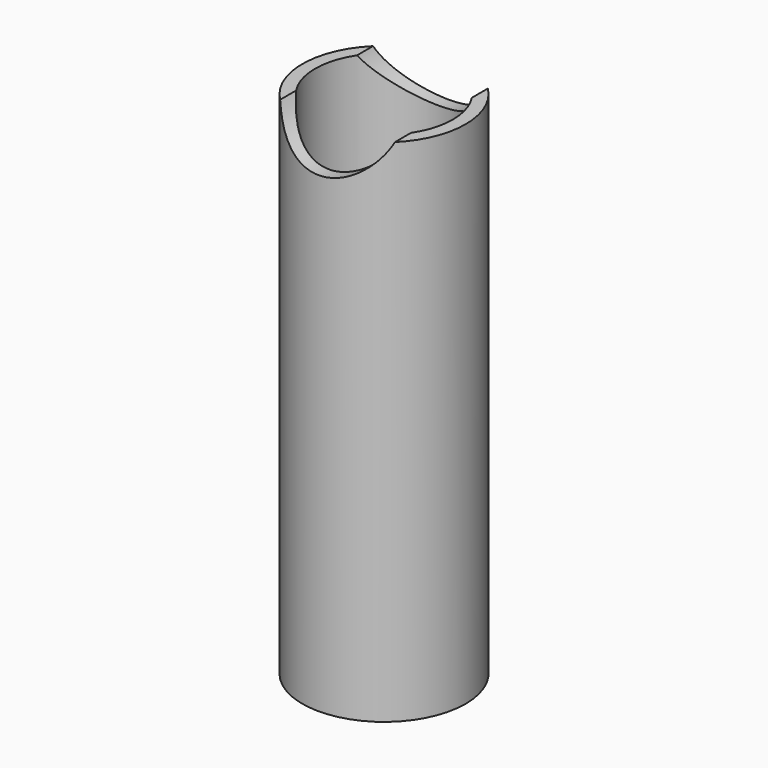
from build123d import *

# Parameters (mm, degrees)
F3_DEPTH      = 12.801
F3_DEPTH_BACK = 12.801


with BuildPart() as f1:
    # F0 (on Front) → F1 (revolve)
    with BuildSketch(Plane.XZ):
        Polygon((3.2, 0), (12.8, 0), (12.8, 80), (10.8, 80), (10.8, 10), (5.2, 10), (4.4, 10.8), (4.4, 12.9607695155), (3.8, 14), (3.2, 14), align=None)
    revolve(axis=Axis((0, 0, 37.0239801705), (0, 0, 1)))

    # F2 (on Front) → F3 (cut, two sides)
    with BuildSketch(Plane.XZ) as f3_sk:
        with BuildLine():
            Line((9, 80), (-9, 80))
            ThreePointArc((-9, 80), (0, 74), (9, 80))
        make_face()
    extrude(amount=-F3_DEPTH, mode=Mode.SUBTRACT)
    extrude(f3_sk.sketch, amount=F3_DEPTH_BACK, mode=Mode.SUBTRACT)


solid = f1.part
